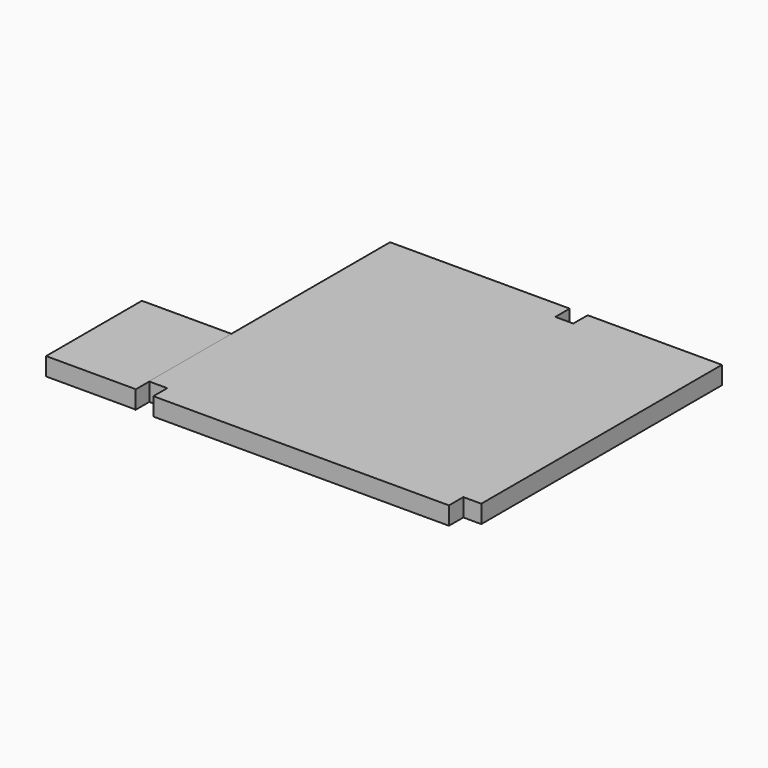
from build123d import *

# Parameters (mm, degrees)
F0_W      = 55.4152354598
F0_H      = 53.2255768776
F3_DEPTH  = 3
F1_W      = 14.9404419214
F1_H      = 20
F2_W      = 3
F2_H      = 3
F4_DEPTH  = 8.2
F5_DEPTH  = 11.8
F6_W      = 3
F6_H      = 3
F7_DEPTH  = 18.4
F8_DEPTH  = 18.4
F9_DEPTH  = 11.5
F10_DEPTH = 25


with BuildPart() as f3:
    # F0 (on Top) → F3 (new body)
    with BuildSketch(Plane.XY):
        with Locations((-0.6665214896, 3.9505399764)):
            Rectangle(F0_W, F0_H)
    extrude(amount=F3_DEPTH)

    # F2 (on Top) → F4 (join)
    with BuildSketch(Plane.XY):
        with Locations((3.1258607805, 29.0633284152)):
            Rectangle(F2_W, F2_H)
        with Locations((-26.8145811409, -21.2570906281)):
            Rectangle(F2_W, F2_H)
        with Locations((25.5410962403, -21.1622484624)):
            Rectangle(F2_W, F2_H)
    extrude(amount=F4_DEPTH)

    # F5 (add): a face of the model
    f5_faces = [f3.faces().sort_by_distance(p)[0] for p in [
        (3.1258607805, 29.0633284152, 8.2),
    ]]
    extrude(f5_faces, amount=-F5_DEPTH)

    # F6 (on face) → F7 (join)
    with BuildSketch(Plane.XY.offset(8.2)):
        with Locations((3.1258607805, 29.0633284152)):
            Rectangle(F6_W, F6_H)
    extrude(amount=-F7_DEPTH)

    # F8 (cut): a face of the model
    f8_faces = [f3.faces().sort_by_distance(p)[0] for p in [
        (3.1258607805, 29.0633284152, 8.2),
    ]]
    extrude(f8_faces, amount=-F8_DEPTH, mode=Mode.SUBTRACT)

    # F9 (cut): a face of the model
    f9_faces = [f3.faces().sort_by_distance(p)[0] for p in [
        (-26.8145811409, -21.2570906281, 8.2),
    ]]
    extrude(f9_faces, amount=-F9_DEPTH, mode=Mode.SUBTRACT)

    # F10 (cut): a face of the model
    f10_faces = [f3.faces().sort_by_distance(p)[0] for p in [
        (25.5410962403, -21.1622484624, 8.2),
    ]]
    extrude(f10_faces, amount=-F10_DEPTH, mode=Mode.SUBTRACT)


with BuildPart() as f3b:
    # F1 (on face) → F3, piece 2 (new body)
    with BuildSketch(Plane.XY):
        with Locations((-35.8443601802, -12.5567854941)):
            Rectangle(F1_W, F1_H)
    extrude(amount=F3_DEPTH)


solid = Compound([f3.part, f3b.part])
